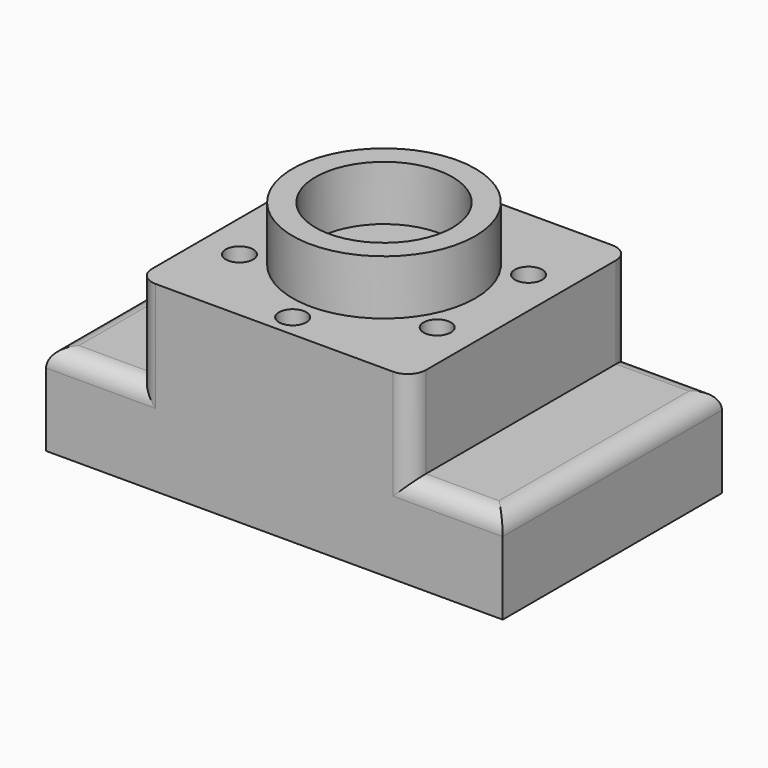
from build123d import *

# Parameters (mm, degrees)
F0_W     = 38.1
F0_H     = 12.7
F1_DEPTH = 19.05
F2_R     = 12.7
F2_R_2   = 9.525
F3_DEPTH = 7.62
F4_R     = 1.905
F5_DEPTH = 2.54
F6_R     = 2.54


with BuildPart() as f1:
    # F0 (on Front) → F1 (new body, symmetric)
    with BuildSketch(Plane.XZ):
        Polygon((-19.05, 6.35), (-31.75, 6.35), (-31.75, -6.35), (31.75, -6.35), (31.75, 6.35), (19.05, 6.35), align=None)
        with Locations((0, 12.7)):
            Rectangle(F0_W, F0_H)
    extrude(amount=F1_DEPTH, both=True)

    # F2 (on face) → F3 (join)
    with BuildSketch(Plane.XY.offset(19.05)):
        Circle(F2_R)
        Circle(F2_R_2, mode=Mode.SUBTRACT)
    extrude(amount=F3_DEPTH)

    # F4 (on face) → F5 (cut)
    with BuildSketch(Plane.XY.offset(19.05)):
        with Locations((13.748153, -7.9375)):
            Circle(F4_R)
        with Locations((13.748153, 7.9375)):
            Circle(F4_R)
        with Locations((0, 15.875)):
            Circle(F4_R)
        with Locations((-13.748153, 7.9375)):
            Circle(F4_R)
        with Locations((-13.748153, -7.9375)):
            Circle(F4_R)
        with Locations((0, -15.875)):
            Circle(F4_R)
    extrude(amount=-F5_DEPTH, mode=Mode.SUBTRACT)

    # F6
    f6_edges = [f1.edges().sort_by_distance(p)[0] for p in [
        (25.4, 19.05, 6.35),
        (31.75, 0, 6.35),
        (25.4, -19.05, 6.35),
        (-19.05, 19.05, 12.7),
        (-25.4, 19.05, 6.35),
        (-31.75, 0, 6.35),
        (-25.4, -19.05, 6.35),
        (-19.05, -19.05, 12.7),
        (19.05, -19.05, 12.7),
        (19.05, 19.05, 12.7),
    ]]
    fillet(f6_edges, radius=F6_R)


solid = f1.part
